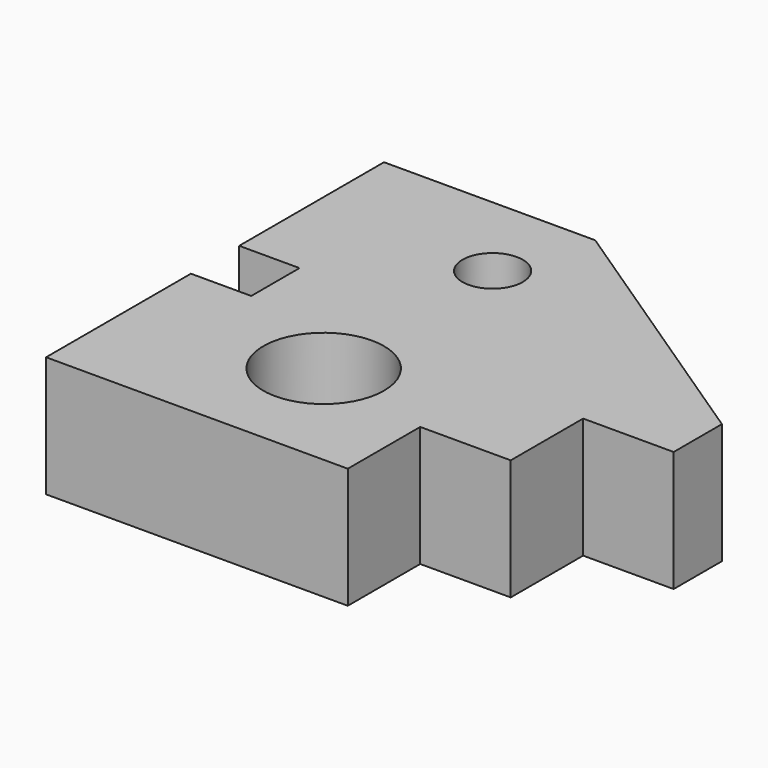
from build123d import *

# Parameters (mm, degrees)
F0_R     = 10
F0_R_2   = 5
F1_DEPTH = 20


with BuildPart() as f1:
    # F0 (on Top) → F1 (new body)
    with BuildSketch(Plane.XY):
        Polygon((0, 30), (0, 0), (50, 0), (50, 15), (65, 15), (65, 30), (80, 30), (80, 40), (35, 70), (0, 70), (0, 40), (10, 40), (10, 30), align=None)
        with Locations((30, 20)):
            Circle(F0_R, mode=Mode.SUBTRACT)
        with Locations((30, 55)):
            Circle(F0_R_2, mode=Mode.SUBTRACT)
    extrude(amount=F1_DEPTH)


solid = f1.part
